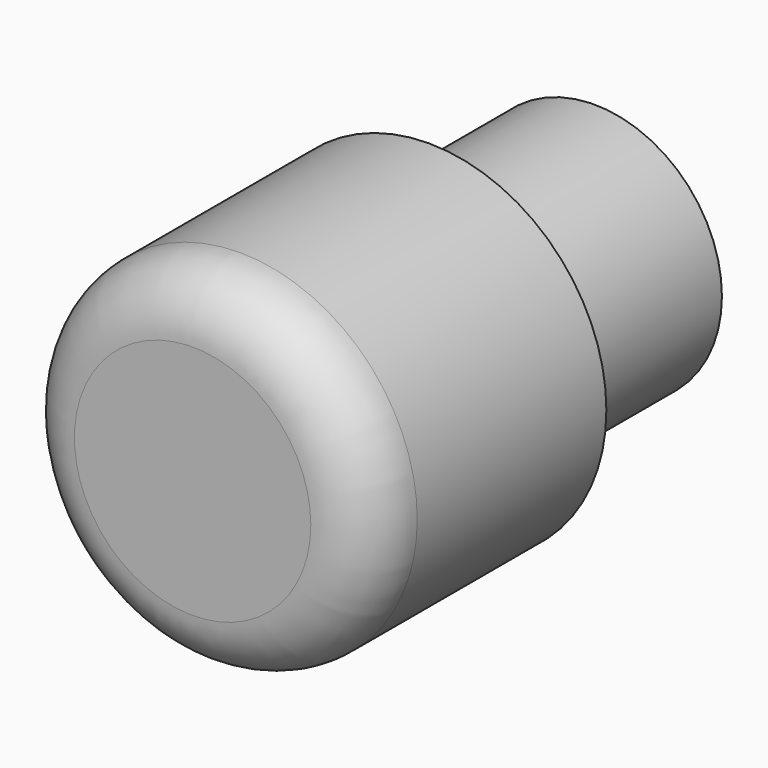
from build123d import *

# Parameters (mm, degrees)
F0_R     = 10.9474
F1_DEPTH = 17.78
F2_R     = 15.24
F2_R_2   = 10.9474
F3_DEPTH = 25.4
F4_R     = 5.08


with BuildPart() as f1:
    # F0 (on Front) → F1 (new body)
    with BuildSketch(Plane.XZ):
        Circle(F0_R)
    extrude(amount=F1_DEPTH)

    # F2 (on face) → F3 (join)
    with BuildSketch(Plane.XZ.offset(17.78)):
        Circle(F2_R)
        Circle(F2_R_2, mode=Mode.SUBTRACT)
        Circle(F2_R_2)
    extrude(amount=F3_DEPTH)

    # F4
    f4_edges = [f1.edges().sort_by_distance(p)[0] for p in [
        (-15.24, -43.18, 0),
    ]]
    fillet(f4_edges, radius=F4_R)


solid = f1.part
